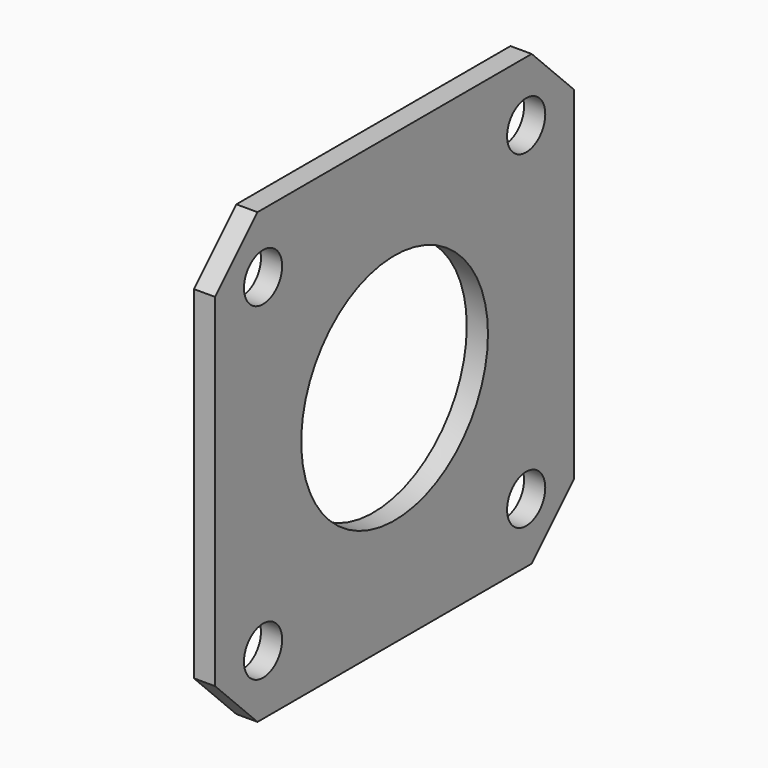
from build123d import *

# Parameters (mm, degrees)
F0_W     = 42.3
F0_H     = 42.3
F0_R     = 2.25
F0_R_2   = 11
F1_DEPTH = 2
F2_SIZE  = 5


with BuildPart() as f1:
    # F0 (on Right) → F1 (new body)
    with BuildSketch(Plane.YZ):
        Rectangle(F0_W, F0_H)
        with Locations((-15.5, -15.5)):
            Circle(F0_R, mode=Mode.SUBTRACT)
        with Locations((15.5, -15.5)):
            Circle(F0_R, mode=Mode.SUBTRACT)
        with Locations((-15.5, 15.5)):
            Circle(F0_R, mode=Mode.SUBTRACT)
        Circle(F0_R_2, mode=Mode.SUBTRACT)
        with Locations((15.5, 15.5)):
            Circle(F0_R, mode=Mode.SUBTRACT)
    extrude(amount=F1_DEPTH)

    # F2
    f2_edges = [f1.edges().sort_by_distance(p)[0] for p in [
        (1, -21.15, 21.15),
        (1, 21.15, 21.15),
        (1, -21.15, -21.15),
        (1, 21.15, -21.15),
    ]]
    chamfer(f2_edges, length=F2_SIZE)


solid = f1.part
